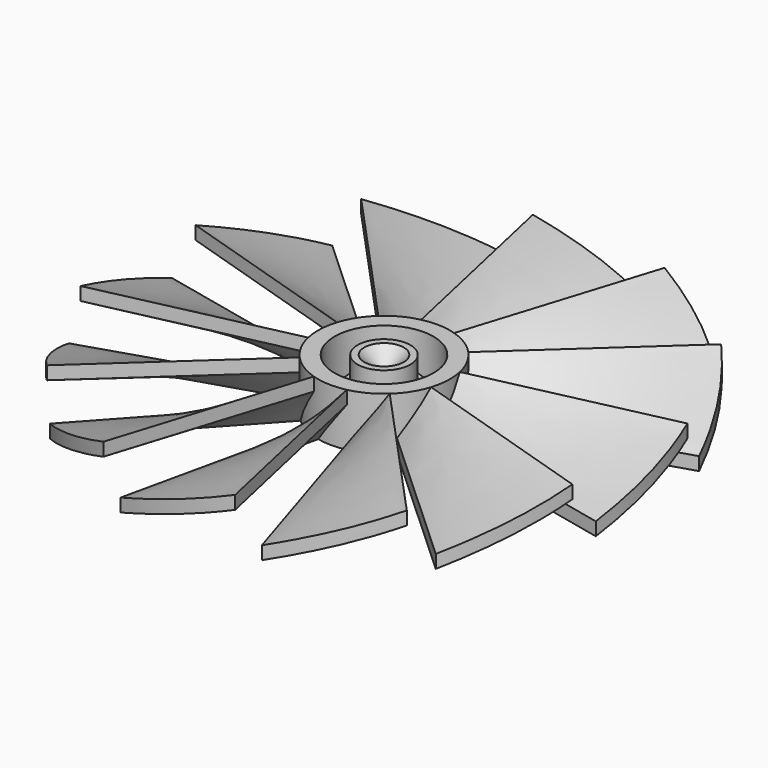
from build123d import *

# Parameters (mm, degrees)
SKETCH003_R     = 40
PAD001_DEPTH    = 20
ARRAY_COUNT     = 12
SKETCH_R        = 10
PAD_DEPTH       = 8
SKETCH004_R     = 7.5
SKETCH004_R_2   = 5
POCKET_DEPTH    = 6
SKETCH005_R     = 5
SKETCH005_R_2   = 4
POCKET001_DEPTH = 4


with BuildPart() as body003:
    # Sketch003 → Pad001 (new body, symmetric)
    with BuildSketch(Plane.XY):
        Circle(SKETCH003_R)
    extrude(amount=PAD001_DEPTH, both=True)


with BuildPart() as blades:
    # Sketch001 → Loft section 0
    with BuildSketch(Plane.XZ.offset(9)):
        Polygon((2, 8), (2, 6), (-2, 0), (-2, 2), align=None)
    # Sketch002 → Loft section 1
    with BuildSketch(Plane.XZ.offset(54)):
        Polygon((12, 8), (12, 6), (-12, 0), (-12, 2), align=None)
    loft()

    # Array: blades ×12 about axis
    array_axis = Axis((0, 0, 0), (0, 0, 1))


with BuildPart() as blades_1:
    add(blades.part)
    for i in range(1, ARRAY_COUNT):
        add(blades.part.rotate(array_axis, i * 360 / ARRAY_COUNT))

    # Common: intersect Body003
    add(body003.part, mode=Mode.INTERSECT)


with BuildPart() as impeller:
    # Sketch → Pad (new body)
    with BuildSketch(Plane.XY):
        Circle(SKETCH_R)
    extrude(amount=PAD_DEPTH)

    # Cone → Cone (revolve, cut)
    with BuildSketch(Plane(origin=(0, 0, 3), x_dir=(1, 0, 0), z_dir=(0, 1, 0))):
        Polygon((0, 0), (3, 3), (0, 3), align=None)
    revolve(axis=Axis((0, 0, 3), (0, 0, -1)), mode=Mode.SUBTRACT)

    # Cone001 → Cone001 (revolve, cut)
    with BuildSketch(Plane(origin=(0, 0, 5), x_dir=(1, 0, 0), z_dir=(0, -1, 0))):
        Polygon((0, 0), (3, 3), (0, 3), align=None)
    revolve(axis=Axis((0, 0, 5), (0, 0, 1)), mode=Mode.SUBTRACT)

    # Fusion: union blades
    add(blades_1.part)

    # Sketch004 (on Face5 of BaseFeature002) → Pocket (cut)
    with BuildSketch(Plane.XY.offset(8)):
        Circle(SKETCH004_R)
        Circle(SKETCH004_R_2, mode=Mode.SUBTRACT)
    extrude(amount=-POCKET_DEPTH, mode=Mode.SUBTRACT)

    # Sketch005 (on Face82 of Pocket) → Pocket001 (cut)
    with BuildSketch(Plane.XY.offset(8)):
        Circle(SKETCH005_R)
        Circle(SKETCH005_R_2, mode=Mode.SUBTRACT)
    extrude(amount=-POCKET001_DEPTH, mode=Mode.SUBTRACT)


solid = impeller.part
